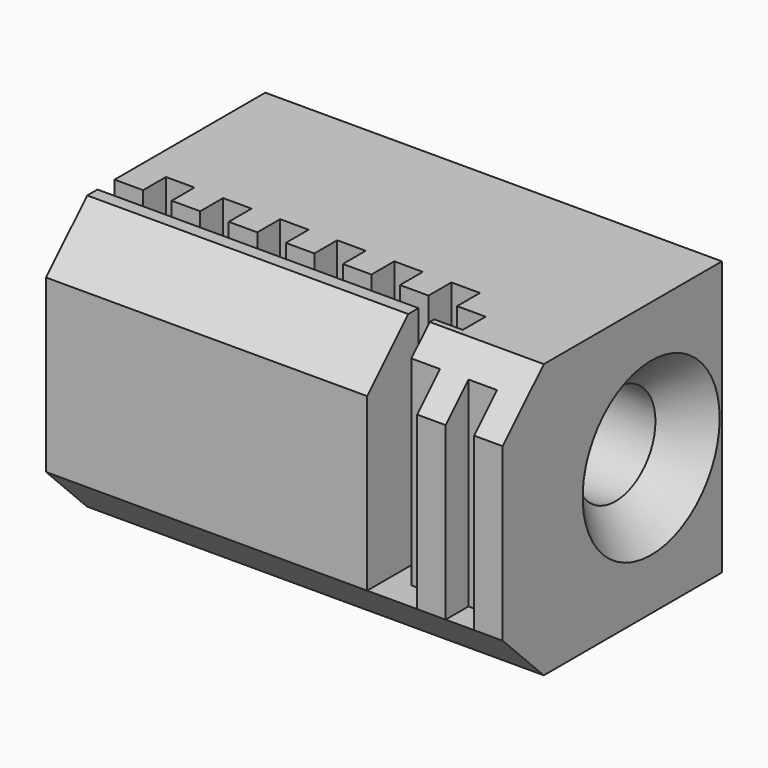
from build123d import *

# Parameters (mm, degrees)
PAD021_DEPTH         = 16
SKETCH081_R          = 1.75
POCKET038_DEPTH      = 12.001
POCKET038_DEPTH_BACK = 4.001
POCKET181_DEPTH      = 7.801
CHAMFER006_SIZE      = 1.25


with BuildPart() as part:
    # Sketch078 → Pad021 (new body)
    with BuildSketch(Plane.YZ):
        Polygon((0, 3), (0, -3), (1.8, -4.8), (9.6, -4.8), (9.6, 4.8), (1.8, 4.8), align=None)
    extrude(amount=-PAD021_DEPTH)

    # Sketch081 → Pocket038 (cut, two sides)
    with BuildSketch(Plane.YZ.offset(-4)) as pocket038_sk:
        with Locations((6.5, 0)):
            Circle(SKETCH081_R)
    extrude(amount=-POCKET038_DEPTH, mode=Mode.SUBTRACT)
    extrude(pocket038_sk.sketch, amount=POCKET038_DEPTH_BACK, mode=Mode.SUBTRACT)

    # Sketch079 → Pocket181 (cut, through all)
    with BuildSketch(Plane.XY.offset(-3)):
        Polygon((0, 0), (-1, 0), (-1, 1), (-2, 1), (-2, 0), (-3, 0), (-3, 1), (-4, 1), (-4, 2), (-3, 2), (-3, 3), (-4, 3), (-4, 4), (-5, 4), (-5, 3), (-6, 3), (-6, 4), (-7, 4), (-7, 3), (-8, 3), (-8, 4), (-9, 4), (-9, 3), (-10, 3), (-10, 4), (-11, 4), (-11, 3), (-12, 3), (-12, 4), (-13, 4), (-13, 3), (-14, 3), (-14, 4), (-15, 4), (-15, 3), (-16, 3), (-16, 2.25), (-4.75, 2.25), (-4.75, -0.75), (0, -0.75), align=None)
    extrude(amount=POCKET181_DEPTH, mode=Mode.SUBTRACT)

    # Chamfer006
    chamfer006_edges = [part.edges().sort_by_distance(p)[0] for p in [
        (0, 4.75, 0),
    ]]
    chamfer(chamfer006_edges, length=CHAMFER006_SIZE)


with BuildPart() as part_1:
    # Body059 placement: moved
    add(part.part.moved(Location((30, 12, 5))))


solid = part_1.part
